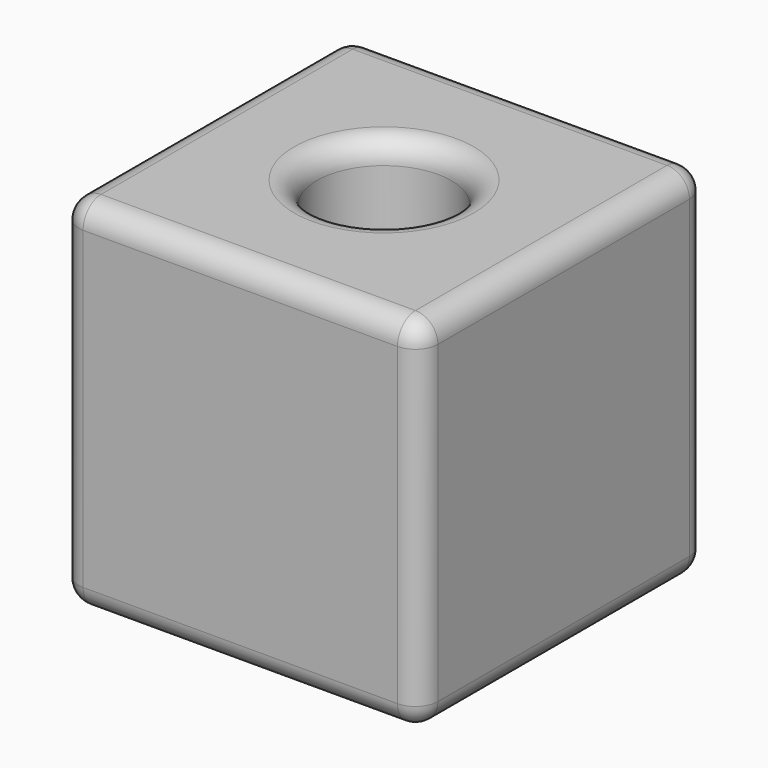
from build123d import *

# Parameters (mm, degrees)
F0_W     = 80
F0_H     = 80
F1_DEPTH = 40
F2_R     = 5
F3_R     = 15
F4_DEPTH = 80.001
F5_R     = 5


with BuildPart() as f1:
    # F0 (on Top) → F1 (new body, symmetric)
    with BuildSketch(Plane.XY):
        Rectangle(F0_W, F0_H)
    extrude(amount=F1_DEPTH, both=True)

    # F2
    f2_edges = [f1.edges().sort_by_distance(p)[0] for p in [
        (0, 40, 40),
        (-40, 0, 40),
        (0, -40, 40),
        (40, 0, 40),
        (-40, -40, 0),
        (40, -40, 0),
        (40, 0, -40),
        (0, -40, -40),
        (-40, 0, -40),
        (0, 40, -40),
        (-40, 40, 0),
        (40, 40, 0),
    ]]
    fillet(f2_edges, radius=F2_R)

    # F3 (on face) → F4 (cut, through all)
    with BuildSketch(Plane.XY.offset(40)):
        Circle(F3_R)
    extrude(amount=-F4_DEPTH, mode=Mode.SUBTRACT)

    # F5
    f5_edges = [f1.edges().sort_by_distance(p)[0] for p in [
        (-15, 0, 40),
        (-15, 0, -40),
    ]]
    fillet(f5_edges, radius=F5_R)


solid = f1.part
